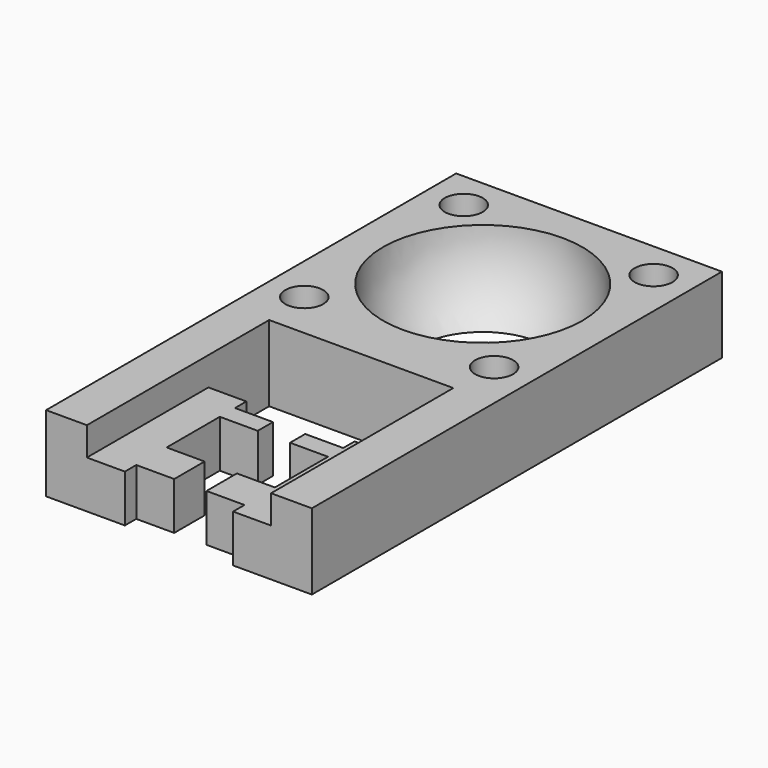
from build123d import *

# Parameters (mm, degrees)
F0_W     = 14
F0_H     = 27
F1_DEPTH = 4
F2_R     = 1
F4_DEPTH = 4
F5_DEPTH = 4
F6_DEPTH = 1.5


with BuildPart() as f1:
    # F0 (on Top) → F1 (new body)
    with BuildSketch(Plane.XY):
        with Locations((7, 13.5)):
            Rectangle(F0_W, F0_H)
    extrude(amount=F1_DEPTH)

    # F2 (on face) → F3 (revolve, cut)
    with BuildSketch(Plane.XY.offset(4)):
        with BuildLine():
            ThreePointArc((7, 14.75), (12.25, 20), (7, 25.25))
            Line((7, 25.25), (7, 14.75))
        make_face()
    revolve(axis=Axis((7, 20, 4), (0, -1, 0)), mode=Mode.SUBTRACT)

    # F2 (on face) → F4 (cut)
    with BuildSketch(Plane.XY.offset(4)):
        with Locations((2, 25)):
            Circle(F2_R)
        with Locations((12, 14.5)):
            Circle(F2_R)
        with Locations((12, 25)):
            Circle(F2_R)
        with Locations((2, 14.5)):
            Circle(F2_R)
    extrude(amount=-F4_DEPTH, mode=Mode.SUBTRACT)

    # F2 (on face) → F5 (cut)
    with BuildSketch(Plane.XY.offset(4)):
        Polygon((2.15, 12), (2.15, 8), (4.15, 8), (4.15, 7.25), (6.15, 7.25), (6.15, 6.25), (4.15, 6.25), (4.15, 2.75), (6.15, 2.75), (6.15, 0.75), (4.15, 0.75), (4.15, 0), (9.85, 0), (9.85, 0.75), (7.85, 0.75), (7.85, 2.75), (9.85, 2.75), (9.85, 6.25), (7.85, 6.25), (7.85, 7.25), (9.85, 7.25), (9.85, 8), (11.85, 8), (11.85, 12), align=None)
    extrude(amount=-F5_DEPTH, mode=Mode.SUBTRACT)

    # F2 (on face) → F6 (cut)
    with BuildSketch(Plane.XY.offset(4)):
        Polygon((2.15, 8), (2.15, 0), (4.15, 0), (4.15, 0.75), (6.15, 0.75), (6.15, 2.75), (4.15, 2.75), (4.15, 6.25), (6.15, 6.25), (6.15, 7.25), (4.15, 7.25), (4.15, 8), align=None)
        Polygon((9.85, 0.75), (9.85, 0), (11.85, 0), (11.85, 8), (9.85, 8), (9.85, 7.25), (7.85, 7.25), (7.85, 6.25), (9.85, 6.25), (9.85, 2.75), (7.85, 2.75), (7.85, 0.75), align=None)
    extrude(amount=-F6_DEPTH, mode=Mode.SUBTRACT)


solid = f1.part
